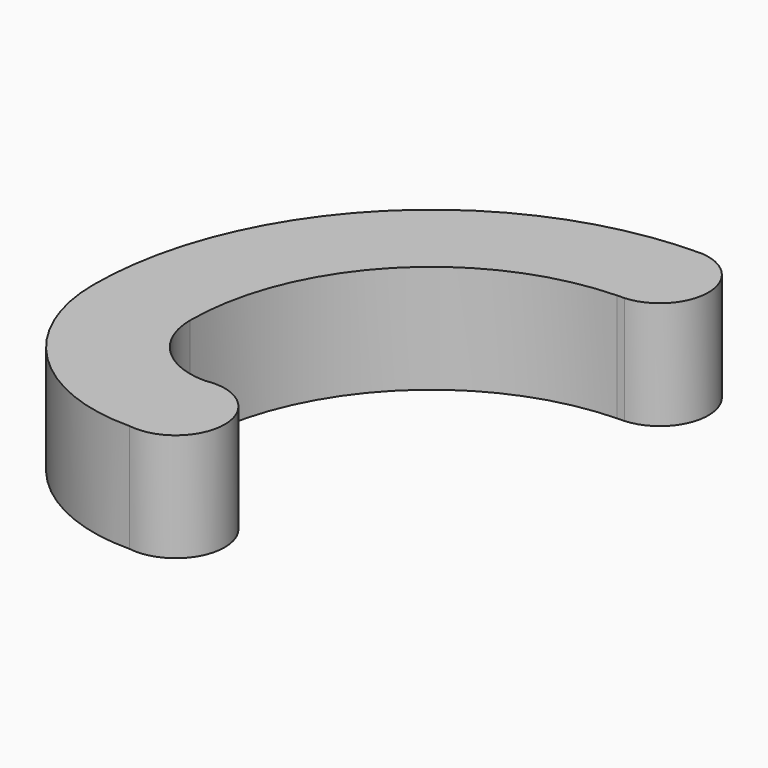
from build123d import *

# Parameters (mm, degrees)
F1_DEPTH = 12.7


with BuildPart() as f1:
    # F0 (on Top) → F1 (new body)
    with BuildSketch(Plane.XY):
        with BuildLine():
            ThreePointArc((-0.856272, 28.302937), (-0.428185, 28.312649), (0, 28.315887))
            ThreePointArc((0, 28.315887), (5.32199, 33.984497), (0, 39.653108))
            ThreePointArc((0, 39.653108), (-28.038981, 28.038981), (-39.653108, 0))
            ThreePointArc((-39.653108, 0), (-33.749679, -14.1228), (-19.551708, -19.843075))
            ThreePointArc((-19.551708, -19.843075), (-12.931084, -14.028775), (-19.797987, -8.507508))
            ThreePointArc((-19.797987, -8.507508), (-25.820421, -6.019392), (-28.315887, 0))
            ThreePointArc((-28.315887, 0), (-20.322839, 19.717294), (-0.856272, 28.302937))
        make_face()
    extrude(amount=F1_DEPTH)


solid = f1.part
